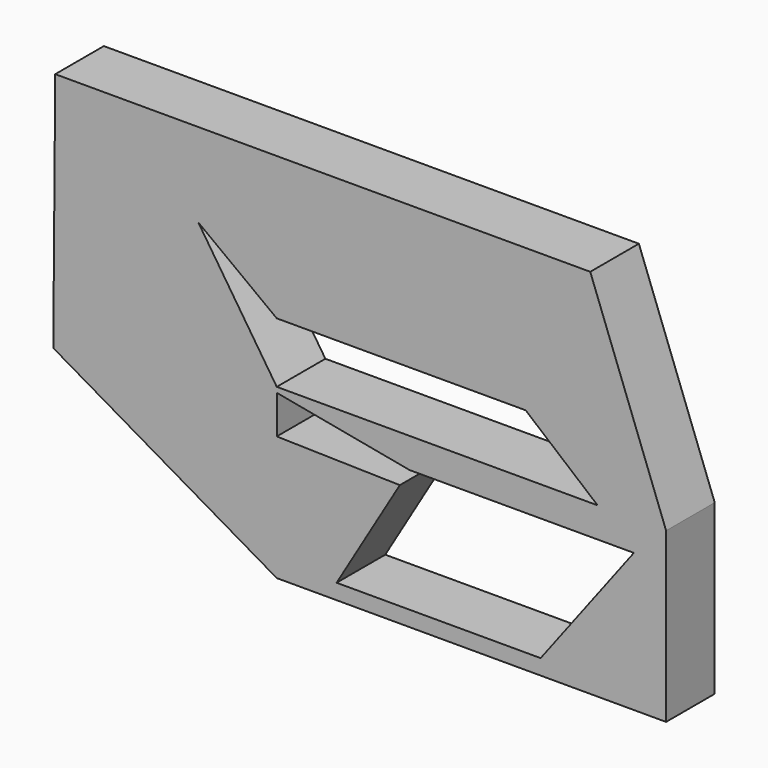
from build123d import *

# Parameters (mm, degrees)
F1_DEPTH = 25


with BuildPart() as f1:
    # F0 (on Front) → F1 (new body)
    with BuildSketch(Plane.XZ):
        Polygon((-89.9047479033, 42.2662571073), (-35.2840051055, 32.0440493524), (56.9544807076, 32.0440493524), (70.2112689614, 44.4089584053), (42.0486187137, 44.4089584053), (-89.9047479033, 44.4089584053), align=None)
        Polygon((70.2112689614, 44.4089584053), (56.9544807076, 32.0440493524), (40.7549355767, 10.6797787951), (70.2112689614, -24.8387977481), align=None)
        Polygon((-65.2892962098, -18.5195934027), (-39.2996874644, 25.2769919188), (-89.9047479033, 26.4464366573), (-89.9047479033, -24.8387977481), align=None)
        Polygon((-181.8143725395, 28.5703986883), (-89.9047479033, 42.2662571073), (-89.9047479033, 44.4089584053), (-181.0087710619, 127.9826015234), align=None)
        Polygon((-89.9047479033, 26.4464366573), (-89.9047479033, 42.2662571073), (-181.8143725395, 28.5703986883), align=None)
        Polygon((70.2112689614, -24.8387977481), (40.7549355767, 10.6797787951), (18.6143927276, -18.5195934027), align=None)
        Polygon((42.0486187137, 44.4089584053), (70.2112689614, 44.4089584053), (24.6596280485, 93.4770107269), (-122.2022771835, 93.4770107269), (-89.9047479033, 69.2056491971), (12.4589074403, 69.2056491971), align=None)
        Polygon((24.6596280485, 93.4770107269), (70.2112689614, 44.4089584053), (39.0130095184, 127.9826015234), (-181.0087710619, 127.9826015234), (-89.9047479033, 44.4089584053), (-122.2022771835, 93.4770107269), align=None)
        Polygon((18.6143927276, -18.5195934027), (-65.2892962098, -18.5195934027), (-89.9047479033, -24.8387977481), (70.2112689614, -24.8387977481), align=None)
        Polygon((-89.9047479033, -24.8387977481), (-89.9047479033, 26.4464366573), (-181.8143725395, 28.5703986883), align=None)
    extrude(amount=F1_DEPTH)


solid = f1.part
